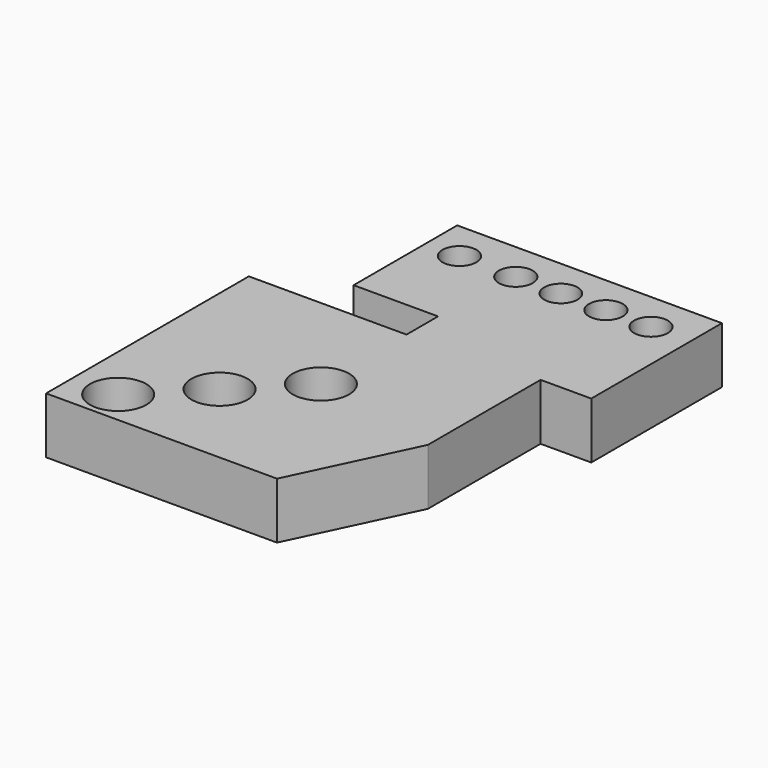
from build123d import *

# Parameters (mm, degrees)
F0_R     = 12.5
F0_R_2   = 7.5
F0_R_3   = 7.397058
F1_DEPTH = 25


with BuildPart() as f1:
    # F0 (on Top) → F1 (new body)
    with BuildSketch(Plane.XY):
        Polygon((-57.642987, 39.949264), (-57.642987, -72.550736), (44.857013, -72.550736), (69.857013, -20.050736), (69.857013, 42.449264), (92.357013, 42.449264), (92.357013, 114.949264), (-25.142987, 114.949264), (-25.142987, 57.449264), (12.357013, 57.449264), (12.357013, 39.949264), align=None)
        with Locations((-37.642987, -57.550736)):
            Circle(F0_R, mode=Mode.SUBTRACT)
        with Locations((-12.642987, -32.550736)):
            Circle(F0_R, mode=Mode.SUBTRACT)
        with Locations((12.357013, -7.550736)):
            Circle(F0_R, mode=Mode.SUBTRACT)
        with Locations((-10.142987, 97.449264)):
            Circle(F0_R_2, mode=Mode.SUBTRACT)
        with Locations((14.857013, 97.449264)):
            Circle(F0_R_2, mode=Mode.SUBTRACT)
        with Locations((34.857013, 97.449264)):
            Circle(F0_R_3, mode=Mode.SUBTRACT)
        with Locations((54.857013, 97.449264)):
            Circle(F0_R_2, mode=Mode.SUBTRACT)
        with Locations((74.857013, 97.449264)):
            Circle(F0_R_2, mode=Mode.SUBTRACT)
    extrude(amount=F1_DEPTH)


solid = f1.part
